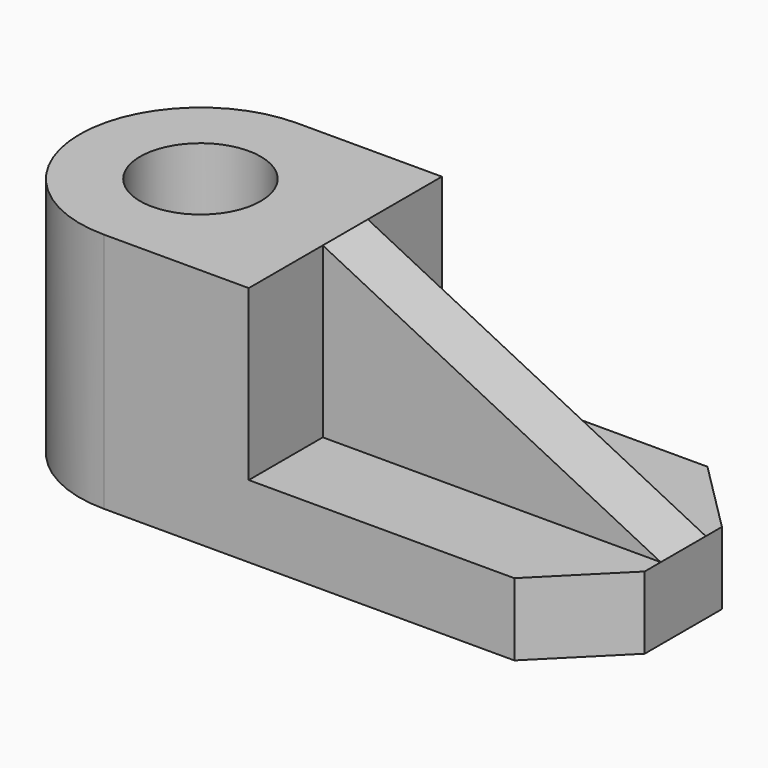
from build123d import *

# Parameters (mm, degrees)
F0_R     = 7.5
F1_DEPTH = 30
F2_W     = 42
F2_H     = 21
F3_DEPTH = 30.001
F5_DEPTH = 18.5
F7_DEPTH = 11.5
F8_SIZE  = 9


with BuildPart() as f1:
    # F0 (on Top) → F1 (new body)
    with BuildSketch(Plane.XY):
        with BuildLine():
            Line((60, 30), (0, 30))
            ThreePointArc((0, 30), (-15, 15), (0, 0))
            Line((0, 0), (60, 0))
            Line((60, 0), (60, 30))
        make_face()
        with Locations((0, 15)):
            Circle(F0_R, mode=Mode.SUBTRACT)
    extrude(amount=F1_DEPTH)

    # F2 (on face) → F3 (cut, through all)
    with BuildSketch(Plane.XZ):
        with Locations((39, 19.5)):
            Rectangle(F2_W, F2_H)
    extrude(amount=-F3_DEPTH, mode=Mode.SUBTRACT)

    # F4 (on face) → F5 (join)
    with BuildSketch(Plane.XZ):
        Polygon((60, 9), (18, 30), (18, 9), align=None)
    extrude(amount=-F5_DEPTH)

    # F6 (on face) → F7 (cut)
    with BuildSketch(Plane.XZ):
        Polygon((18, 9), (60, 9), (18, 30), align=None)
    extrude(amount=-F7_DEPTH, mode=Mode.SUBTRACT)

    # F8
    f8_edges = [f1.edges().sort_by_distance(p)[0] for p in [
        (60, 0, 4.5),
        (60, 30, 4.5),
    ]]
    chamfer(f8_edges, length=F8_SIZE)


solid = f1.part
